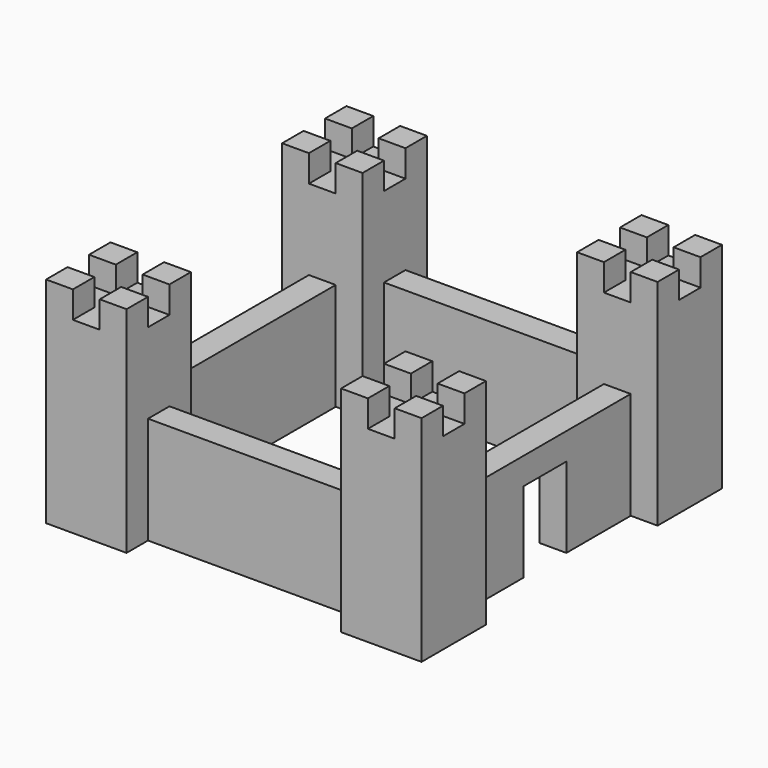
from build123d import *

# Parameters (mm, degrees)
BOX003_W     = 5
BOX003_H     = 5
BOX003_DEPTH = 5
BOX005_W     = 5
BOX005_H     = 5
BOX005_DEPTH = 5
BOX004_W     = 5
BOX004_H     = 5
BOX004_DEPTH = 5
BOX002_W     = 5
BOX002_H     = 5
BOX002_DEPTH = 5
BOX001_W     = 5
BOX001_H     = 5
BOX001_DEPTH = 5
BOX_W        = 15
BOX_H        = 15
BOX_DEPTH    = 40
BOX007_W     = 5
BOX007_H     = 10
BOX007_DEPTH = 15
BOX006_W     = 5
BOX006_H     = 40
BOX006_DEPTH = 20
BOX011_W     = 5
BOX011_H     = 5
BOX011_DEPTH = 5
BOX013_W     = 5
BOX013_H     = 5
BOX013_DEPTH = 5
BOX012_W     = 5
BOX012_H     = 5
BOX012_DEPTH = 5
BOX010_W     = 5
BOX010_H     = 5
BOX010_DEPTH = 5
BOX009_W     = 5
BOX009_H     = 5
BOX009_DEPTH = 5
BOX008_W     = 15
BOX008_H     = 15
BOX008_DEPTH = 40
BOX014_W     = 5
BOX014_H     = 40
BOX014_DEPTH = 20
BOX018_W     = 5
BOX018_H     = 5
BOX018_DEPTH = 5
BOX020_W     = 5
BOX020_H     = 5
BOX020_DEPTH = 5
BOX019_W     = 5
BOX019_H     = 5
BOX019_DEPTH = 5
BOX017_W     = 5
BOX017_H     = 5
BOX017_DEPTH = 5
BOX016_W     = 5
BOX016_H     = 5
BOX016_DEPTH = 5
BOX015_W     = 15
BOX015_H     = 15
BOX015_DEPTH = 40
BOX021_W     = 5
BOX021_H     = 40
BOX021_DEPTH = 20
BOX025_W     = 5
BOX025_H     = 5
BOX025_DEPTH = 5
BOX027_W     = 5
BOX027_H     = 5
BOX027_DEPTH = 5
BOX026_W     = 5
BOX026_H     = 5
BOX026_DEPTH = 5
BOX024_W     = 5
BOX024_H     = 5
BOX024_DEPTH = 5
BOX023_W     = 5
BOX023_H     = 5
BOX023_DEPTH = 5
BOX022_W     = 15
BOX022_H     = 15
BOX022_DEPTH = 40
BOX028_W     = 5
BOX028_H     = 40
BOX028_DEPTH = 20


with BuildPart() as cubo003:
    # Box003 → Box003 (new body)
    with BuildSketch(Plane(origin=(10, 5, 35), x_dir=(1, 0, 0), z_dir=(0, 0, 1))):
        with Locations((2.5, 2.5)):
            Rectangle(BOX003_W, BOX003_H)
    extrude(amount=BOX003_DEPTH)


with BuildPart() as cubo005:
    # Box005 → Box005 (new body)
    with BuildSketch(Plane(origin=(5, 5, 35), x_dir=(1, 0, 0), z_dir=(0, 0, 1))):
        with Locations((2.5, 2.5)):
            Rectangle(BOX005_W, BOX005_H)
    extrude(amount=BOX005_DEPTH)


with BuildPart() as cubo004:
    # Box004 → Box004 (new body)
    with BuildSketch(Plane(origin=(5, 10, 35), x_dir=(1, 0, 0), z_dir=(0, 0, 1))):
        with Locations((2.5, 2.5)):
            Rectangle(BOX004_W, BOX004_H)
    extrude(amount=BOX004_DEPTH)


with BuildPart() as cubo002:
    # Box002 → Box002 (new body)
    with BuildSketch(Plane(origin=(0, 5, 35), x_dir=(1, 0, 0), z_dir=(0, 0, 1))):
        with Locations((2.5, 2.5)):
            Rectangle(BOX002_W, BOX002_H)
    extrude(amount=BOX002_DEPTH)


with BuildPart() as cubo001:
    # Box001 → Box001 (new body)
    with BuildSketch(Plane(origin=(5, 0, 35), x_dir=(1, 0, 0), z_dir=(0, 0, 1))):
        with Locations((2.5, 2.5)):
            Rectangle(BOX001_W, BOX001_H)
    extrude(amount=BOX001_DEPTH)


with BuildPart() as torre1:
    # Box → Box (new body)
    with BuildSketch(Plane.XY):
        with Locations((7.5, 7.5)):
            Rectangle(BOX_W, BOX_H)
    extrude(amount=BOX_DEPTH)

    # Cut: cut Cubo001
    add(cubo001.part, mode=Mode.SUBTRACT)

    # Cut001: cut Cubo002
    add(cubo002.part, mode=Mode.SUBTRACT)

    # Cut002: cut Cubo004
    add(cubo004.part, mode=Mode.SUBTRACT)

    # Cut003: cut Cubo005
    add(cubo005.part, mode=Mode.SUBTRACT)

    # Cut004: cut Cubo003
    add(cubo003.part, mode=Mode.SUBTRACT)


with BuildPart() as cubo006:
    # Box007 → Box007 (new body)
    with BuildSketch(Plane(origin=(5, 30, 0), x_dir=(1, 0, 0), z_dir=(0, 0, 1))):
        with Locations((2.5, 5)):
            Rectangle(BOX007_W, BOX007_H)
    extrude(amount=BOX007_DEPTH)


with BuildPart() as obj1:
    # Box006 → Box006 (new body)
    with BuildSketch(Plane(origin=(5, 15, 0), x_dir=(1, 0, 0), z_dir=(0, 0, 1))):
        with Locations((2.5, 20)):
            Rectangle(BOX006_W, BOX006_H)
    extrude(amount=BOX006_DEPTH)

    # Cut005: cut Cubo006
    add(cubo006.part, mode=Mode.SUBTRACT)


with BuildPart() as cubo010:
    # Box011 → Box011 (new body)
    with BuildSketch(Plane(origin=(10, 5, 35), x_dir=(1, 0, 0), z_dir=(0, 0, 1))):
        with Locations((2.5, 2.5)):
            Rectangle(BOX011_W, BOX011_H)
    extrude(amount=BOX011_DEPTH)


with BuildPart() as cubo012:
    # Box013 → Box013 (new body)
    with BuildSketch(Plane(origin=(5, 5, 35), x_dir=(1, 0, 0), z_dir=(0, 0, 1))):
        with Locations((2.5, 2.5)):
            Rectangle(BOX013_W, BOX013_H)
    extrude(amount=BOX013_DEPTH)


with BuildPart() as cubo011:
    # Box012 → Box012 (new body)
    with BuildSketch(Plane(origin=(5, 10, 35), x_dir=(1, 0, 0), z_dir=(0, 0, 1))):
        with Locations((2.5, 2.5)):
            Rectangle(BOX012_W, BOX012_H)
    extrude(amount=BOX012_DEPTH)


with BuildPart() as cubo009:
    # Box010 → Box010 (new body)
    with BuildSketch(Plane(origin=(0, 5, 35), x_dir=(1, 0, 0), z_dir=(0, 0, 1))):
        with Locations((2.5, 2.5)):
            Rectangle(BOX010_W, BOX010_H)
    extrude(amount=BOX010_DEPTH)


with BuildPart() as cubo008:
    # Box009 → Box009 (new body)
    with BuildSketch(Plane(origin=(5, 0, 35), x_dir=(1, 0, 0), z_dir=(0, 0, 1))):
        with Locations((2.5, 2.5)):
            Rectangle(BOX009_W, BOX009_H)
    extrude(amount=BOX009_DEPTH)


with BuildPart() as torre002:
    # Box008 → Box008 (new body)
    with BuildSketch(Plane.XY):
        with Locations((7.5, 7.5)):
            Rectangle(BOX008_W, BOX008_H)
    extrude(amount=BOX008_DEPTH)

    # Cut006: cut Cubo008
    add(cubo008.part, mode=Mode.SUBTRACT)

    # Cut007: cut Cubo009
    add(cubo009.part, mode=Mode.SUBTRACT)

    # Cut008: cut Cubo011
    add(cubo011.part, mode=Mode.SUBTRACT)

    # Cut009: cut Cubo012
    add(cubo012.part, mode=Mode.SUBTRACT)

    # Cut010: cut Cubo010
    add(cubo010.part, mode=Mode.SUBTRACT)


with BuildPart() as torre002_1:
    # Cut010 placement: moved
    add(torre002.part.moved(Location((0, 55, 0))))


with BuildPart() as pared1:
    # Box014 → Box014 (new body)
    with BuildSketch(Plane(origin=(0, 60, 0), x_dir=(0, 1, 0), z_dir=(0, 0, 1))):
        with Locations((2.5, 20)):
            Rectangle(BOX014_W, BOX014_H)
    extrude(amount=BOX014_DEPTH)


with BuildPart() as cubo017:
    # Box018 → Box018 (new body)
    with BuildSketch(Plane(origin=(10, 5, 35), x_dir=(1, 0, 0), z_dir=(0, 0, 1))):
        with Locations((2.5, 2.5)):
            Rectangle(BOX018_W, BOX018_H)
    extrude(amount=BOX018_DEPTH)


with BuildPart() as cubo019:
    # Box020 → Box020 (new body)
    with BuildSketch(Plane(origin=(5, 5, 35), x_dir=(1, 0, 0), z_dir=(0, 0, 1))):
        with Locations((2.5, 2.5)):
            Rectangle(BOX020_W, BOX020_H)
    extrude(amount=BOX020_DEPTH)


with BuildPart() as cubo018:
    # Box019 → Box019 (new body)
    with BuildSketch(Plane(origin=(5, 10, 35), x_dir=(1, 0, 0), z_dir=(0, 0, 1))):
        with Locations((2.5, 2.5)):
            Rectangle(BOX019_W, BOX019_H)
    extrude(amount=BOX019_DEPTH)


with BuildPart() as cubo016:
    # Box017 → Box017 (new body)
    with BuildSketch(Plane(origin=(0, 5, 35), x_dir=(1, 0, 0), z_dir=(0, 0, 1))):
        with Locations((2.5, 2.5)):
            Rectangle(BOX017_W, BOX017_H)
    extrude(amount=BOX017_DEPTH)


with BuildPart() as cubo015:
    # Box016 → Box016 (new body)
    with BuildSketch(Plane(origin=(5, 0, 35), x_dir=(1, 0, 0), z_dir=(0, 0, 1))):
        with Locations((2.5, 2.5)):
            Rectangle(BOX016_W, BOX016_H)
    extrude(amount=BOX016_DEPTH)


with BuildPart() as torre003:
    # Box015 → Box015 (new body)
    with BuildSketch(Plane.XY):
        with Locations((7.5, 7.5)):
            Rectangle(BOX015_W, BOX015_H)
    extrude(amount=BOX015_DEPTH)

    # Cut011: cut Cubo015
    add(cubo015.part, mode=Mode.SUBTRACT)

    # Cut012: cut Cubo016
    add(cubo016.part, mode=Mode.SUBTRACT)

    # Cut013: cut Cubo018
    add(cubo018.part, mode=Mode.SUBTRACT)

    # Cut014: cut Cubo019
    add(cubo019.part, mode=Mode.SUBTRACT)

    # Cut015: cut Cubo017
    add(cubo017.part, mode=Mode.SUBTRACT)


with BuildPart() as torre003_1:
    # Cut015 placement: moved
    add(torre003.part.moved(Location((-55, 55, 0))))


with BuildPart() as pared002:
    # Box021 → Box021 (new body)
    with BuildSketch(Plane(origin=(-45, 55, 0), x_dir=(-1, 0, 0), z_dir=(0, 0, 1))):
        with Locations((2.5, 20)):
            Rectangle(BOX021_W, BOX021_H)
    extrude(amount=BOX021_DEPTH)


with BuildPart() as cubo023:
    # Box025 → Box025 (new body)
    with BuildSketch(Plane(origin=(10, 5, 35), x_dir=(1, 0, 0), z_dir=(0, 0, 1))):
        with Locations((2.5, 2.5)):
            Rectangle(BOX025_W, BOX025_H)
    extrude(amount=BOX025_DEPTH)


with BuildPart() as cubo025:
    # Box027 → Box027 (new body)
    with BuildSketch(Plane(origin=(5, 5, 35), x_dir=(1, 0, 0), z_dir=(0, 0, 1))):
        with Locations((2.5, 2.5)):
            Rectangle(BOX027_W, BOX027_H)
    extrude(amount=BOX027_DEPTH)


with BuildPart() as cubo024:
    # Box026 → Box026 (new body)
    with BuildSketch(Plane(origin=(5, 10, 35), x_dir=(1, 0, 0), z_dir=(0, 0, 1))):
        with Locations((2.5, 2.5)):
            Rectangle(BOX026_W, BOX026_H)
    extrude(amount=BOX026_DEPTH)


with BuildPart() as cubo022:
    # Box024 → Box024 (new body)
    with BuildSketch(Plane(origin=(0, 5, 35), x_dir=(1, 0, 0), z_dir=(0, 0, 1))):
        with Locations((2.5, 2.5)):
            Rectangle(BOX024_W, BOX024_H)
    extrude(amount=BOX024_DEPTH)


with BuildPart() as cubo021:
    # Box023 → Box023 (new body)
    with BuildSketch(Plane(origin=(5, 0, 35), x_dir=(1, 0, 0), z_dir=(0, 0, 1))):
        with Locations((2.5, 2.5)):
            Rectangle(BOX023_W, BOX023_H)
    extrude(amount=BOX023_DEPTH)


with BuildPart() as torre004:
    # Box022 → Box022 (new body)
    with BuildSketch(Plane.XY):
        with Locations((7.5, 7.5)):
            Rectangle(BOX022_W, BOX022_H)
    extrude(amount=BOX022_DEPTH)

    # Cut016: cut Cubo021
    add(cubo021.part, mode=Mode.SUBTRACT)

    # Cut017: cut Cubo022
    add(cubo022.part, mode=Mode.SUBTRACT)

    # Cut018: cut Cubo024
    add(cubo024.part, mode=Mode.SUBTRACT)

    # Cut019: cut Cubo025
    add(cubo025.part, mode=Mode.SUBTRACT)

    # Cut020: cut Cubo023
    add(cubo023.part, mode=Mode.SUBTRACT)


with BuildPart() as torre004_1:
    # Cut020 placement: moved
    add(torre004.part.moved(Location((-55, 0, 0))))


with BuildPart() as pared003:
    # Box028 → Box028 (new body)
    with BuildSketch(Plane(origin=(0, 5, 0), x_dir=(0, 1, 0), z_dir=(0, 0, 1))):
        with Locations((2.5, 20)):
            Rectangle(BOX028_W, BOX028_H)
    extrude(amount=BOX028_DEPTH)


solid = Compound([torre1.part, obj1.part, torre002_1.part, pared1.part, torre003_1.part, pared002.part, torre004_1.part, pared003.part])
